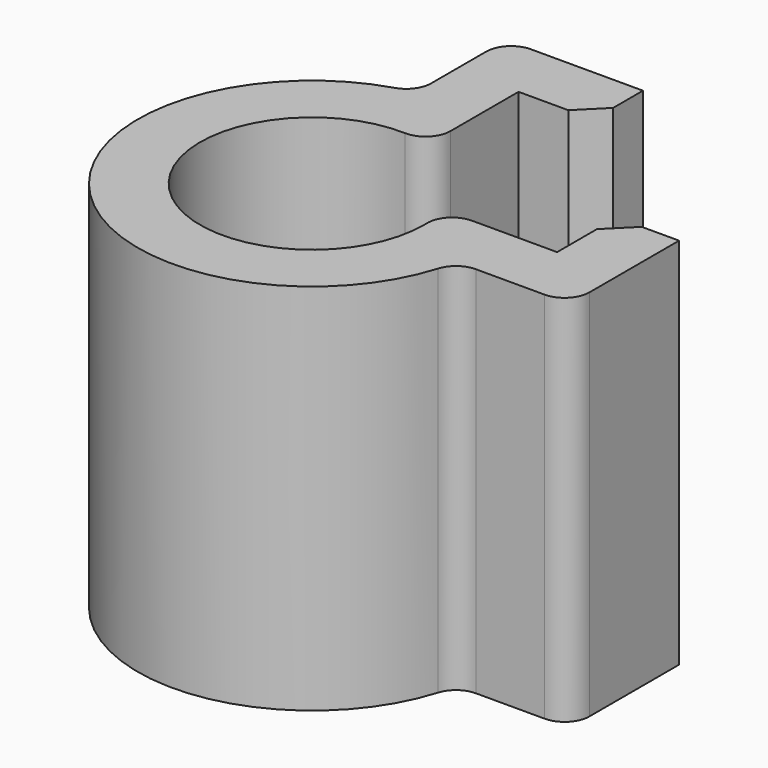
from build123d import *

# Parameters (mm, degrees)
F1_DEPTH = 15
F2_SIZE  = 1
F3_R     = 1


with BuildPart() as f1:
    # F0 (on Top) → F1 (new body)
    with BuildSketch(Plane.XY):
        with BuildLine():
            ThreePointArc((-2.5, 5.706772), (-1.251394, 5.834777), (0, 5.737742))
            Line((0, 5.737742), (0, 7.75))
            Line((0, 7.75), (3, 7.75))
            Line((3, 7.75), (3, 10.25))
            Line((3, 10.25), (-2.5, 10.25))
            Line((-2.5, 10.25), (-2.5, 5.706772))
        make_face()
        with BuildLine():
            ThreePointArc((3.181981, 0), (3.296816, -0.577318), (3.335314, -1.164686))
            ThreePointArc((3.335314, -1.164686), (-4.734776, -3.904112), (0, 3.181981))
            Line((0, 3.181981), (0, 5.737742))
            ThreePointArc((0, 5.737742), (-1.251394, 5.834777), (-2.5, 5.706772))
            ThreePointArc((-2.5, 5.706772), (-6.114433, -6.114433), (5.706772, -2.5))
            ThreePointArc((5.706772, -2.5), (5.803105, -1.835429), (5.835314, -1.164686))
            ThreePointArc((5.835314, -1.164686), (5.810879, -0.580303), (5.737742, 0))
            Line((5.737742, 0), (3.181981, 0))
        make_face()
        with BuildLine():
            Line((7.75, 0), (5.737742, 0))
            ThreePointArc((5.737742, 0), (5.810879, -0.580303), (5.835314, -1.164686))
            ThreePointArc((5.835314, -1.164686), (5.803105, -1.835429), (5.706772, -2.5))
            Line((5.706772, -2.5), (10.25, -2.5))
            Line((10.25, -2.5), (10.25, 3))
            Line((10.25, 3), (7.75, 3))
            Line((7.75, 3), (7.75, 0))
        make_face()
    extrude(amount=F1_DEPTH)

    # F2
    f2_edges = [f1.edges().sort_by_distance(p)[0] for p in [
        (3, 7.75, 7.5),
        (7.75, 3, 7.5),
    ]]
    chamfer(f2_edges, length=F2_SIZE)

    # F3
    f3_edges = [f1.edges().sort_by_distance(p)[0] for p in [
        (10.25, -2.5, 7.5),
        (0, 3.181981, 7.5),
        (-2.5, 10.25, 7.5),
        (3.181981, 0, 7.5),
        (-2.5, 5.706772, 7.5),
        (5.706772, -2.5, 7.5),
    ]]
    fillet(f3_edges, radius=F3_R)


solid = f1.part
